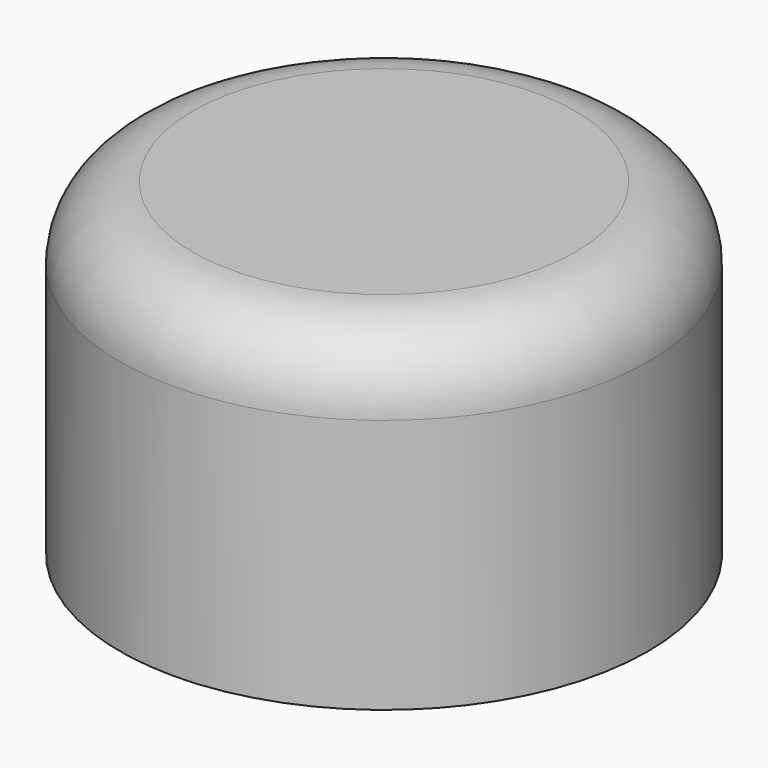
from build123d import *

# Parameters (mm, degrees)
SKETCH_R      = 7.25
SKETCH_R_2    = 5.2
PAD_DEPTH     = 6
SKETCH001_R   = 7.25
PAD001_DEPTH  = 3
FILLET_R      = 2
FILLET001_R   = 0.3
SKETCH002_R   = 5.2
SKETCH002_R_2 = 4.1
PAD002_DEPTH  = 3.4


with BuildPart() as part:
    # Sketch → Pad (new body)
    with BuildSketch(Plane.XY):
        Circle(SKETCH_R)
        Circle(SKETCH_R_2, mode=Mode.SUBTRACT)
    extrude(amount=PAD_DEPTH)

    # Sketch001 (on Face4 of Pad) → Pad001 (join)
    with BuildSketch(Plane.XY.offset(6)):
        Circle(SKETCH001_R)
    extrude(amount=PAD001_DEPTH)

    # Fillet
    fillet_edges = [part.edges().sort_by_distance(p)[0] for p in [
        (-7.25, 0, 9),
    ]]
    fillet(fillet_edges, radius=FILLET_R)

    # Fillet001
    fillet001_edges = [part.edges().sort_by_distance(p)[0] for p in [
        (-5.2, 0, 0),
    ]]
    fillet(fillet001_edges, radius=FILLET001_R)

    # Sketch002 (on Face6 of Fillet001) → Pad002 (join)
    with BuildSketch(Plane(origin=(0, 0, 6), x_dir=(1, 0, 0), z_dir=(0, 0, -1))):
        Circle(SKETCH002_R)
        Circle(SKETCH002_R_2, mode=Mode.SUBTRACT)
    extrude(amount=PAD002_DEPTH)


solid = part.part
